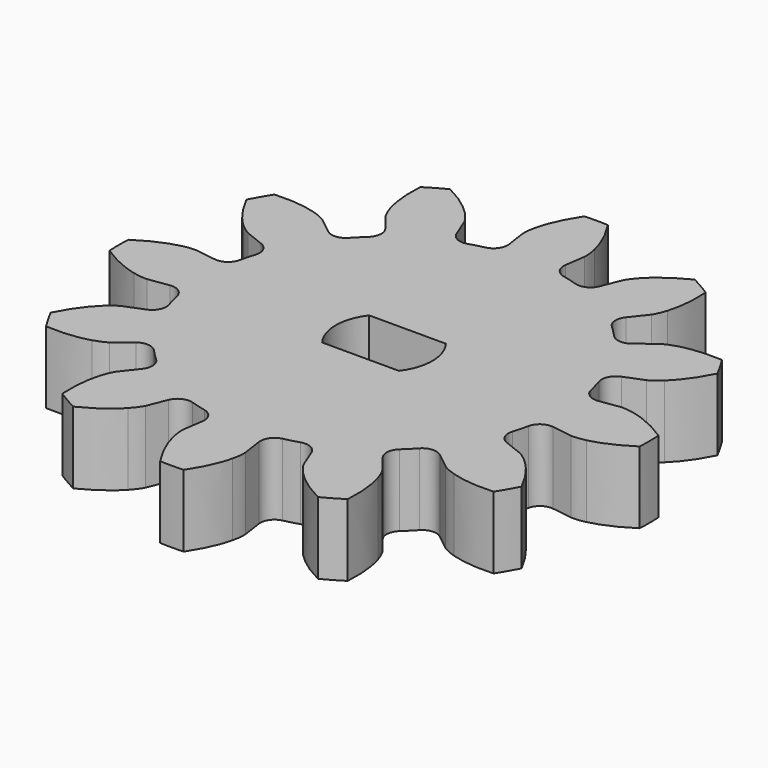
from build123d import *

# Parameters (mm, degrees)
PAD001_DEPTH    = 3.8
SKETCH004_R     = 3.5
PAD002_DEPTH    = 3
POCKET002_DEPTH = 100


with BuildPart() as part:
    # InvoluteGear001 → Pad001 (new body)
    with BuildSketch(Plane.XY):
        with BuildLine():
            Line((10.114057, -1.48521), (11.188455, -1.641329))
            add(Edge.make_bspline(
                [(11.188455, -1.641329), (11.271163, -1.647218), (11.519475, -1.652719), (11.936924, -1.557673)],
                knots=[0, 0, 0, 0, 1, 1, 1, 1], degree=3))
            add(Edge.make_bspline(
                [(11.936924, -1.557673), (12.433827, -1.44162), (13.14138, -1.18392), (13.989027, -0.619513)],
                knots=[0, 0, 0, 0, 1, 1, 1, 1], degree=3))
            ThreePointArc((13.989027, -0.619513), (14.002741, 0), (13.989027, 0.619513))
            add(Edge.make_bspline(
                [(13.989027, 0.619513), (13.14138, 1.18392), (12.433827, 1.44162), (11.936924, 1.557673)],
                knots=[0, 0, 0, 0, 1, 1, 1, 1], degree=3))
            add(Edge.make_bspline(
                [(11.936924, 1.557673), (11.519475, 1.652719), (11.271163, 1.647218), (11.188455, 1.641329)],
                knots=[0, 0, 0, 0, 1, 1, 1, 1], degree=3))
            Line((11.188455, 1.641329), (10.114057, 1.48521))
            ThreePointArc((10.114057, 1.48521), (9.580533, 1.608986), (9.273415, 2.062469))
            ThreePointArc((9.273415, 2.062469), (9.176295, 2.458781), (9.062247, 2.850557))
            ThreePointArc((9.062247, 2.850557), (9.101478, 3.396844), (9.501636, 3.770799))
            Line((9.501636, 3.770799), (10.510151, 4.172795))
            add(Edge.make_bspline(
                [(10.510151, 4.172795), (10.584722, 4.209049), (10.802518, 4.328441), (11.116516, 4.619478)],
                knots=[0, 0, 0, 0, 1, 1, 1, 1], degree=3))
            add(Edge.make_bspline(
                [(11.116516, 4.619478), (11.48882, 4.968434), (11.972729, 5.545385), (12.424609, 6.457999)],
                knots=[0, 0, 0, 0, 1, 1, 1, 1], degree=3))
            ThreePointArc((12.424609, 6.457999), (12.126729, 7.00137), (11.805096, 7.531028))
            add(Edge.make_bspline(
                [(11.805096, 7.531028), (10.788809, 7.595995), (10.0472, 7.465393), (9.558843, 7.317446)],
                knots=[0, 0, 0, 0, 1, 1, 1, 1], degree=3))
            add(Edge.make_bspline(
                [(9.558843, 7.317446), (9.149799, 7.191034), (8.937504, 7.062114), (8.868822, 7.01566)],
                knots=[0, 0, 0, 0, 1, 1, 1, 1], degree=3))
            Line((8.868822, 7.01566), (8.016425, 6.343258))
            ThreePointArc((8.016425, 6.343258), (7.492492, 6.183689), (6.999778, 6.422858))
            ThreePointArc((6.999778, 6.422858), (6.717514, 6.717514), (6.422858, 6.999778))
            ThreePointArc((6.422858, 6.999778), (6.183689, 7.492492), (6.343258, 8.016425))
            Line((6.343258, 8.016425), (7.01566, 8.868822))
            add(Edge.make_bspline(
                [(7.01566, 8.868822), (7.062114, 8.937504), (7.191034, 9.149799), (7.317446, 9.558843)],
                knots=[0, 0, 0, 0, 1, 1, 1, 1], degree=3))
            add(Edge.make_bspline(
                [(7.317446, 9.558843), (7.465393, 10.0472), (7.595995, 10.788809), (7.531028, 11.805096)],
                knots=[0, 0, 0, 0, 1, 1, 1, 1], degree=3))
            ThreePointArc((7.531028, 11.805096), (7.00137, 12.126729), (6.457999, 12.424609))
            add(Edge.make_bspline(
                [(6.457999, 12.424609), (5.545385, 11.972729), (4.968434, 11.48882), (4.619478, 11.116516)],
                knots=[0, 0, 0, 0, 1, 1, 1, 1], degree=3))
            add(Edge.make_bspline(
                [(4.619478, 11.116516), (4.328441, 10.802518), (4.209049, 10.584722), (4.172795, 10.510151)],
                knots=[0, 0, 0, 0, 1, 1, 1, 1], degree=3))
            Line((4.172795, 10.510151), (3.770799, 9.501636))
            ThreePointArc((3.770799, 9.501636), (3.396844, 9.101478), (2.850557, 9.062247))
            ThreePointArc((2.850557, 9.062247), (2.458781, 9.176295), (2.062469, 9.273415))
            ThreePointArc((2.062469, 9.273415), (1.608986, 9.580533), (1.48521, 10.114057))
            Line((1.48521, 10.114057), (1.641329, 11.188455))
            add(Edge.make_bspline(
                [(1.641329, 11.188455), (1.647218, 11.271163), (1.652719, 11.519475), (1.557673, 11.936924)],
                knots=[0, 0, 0, 0, 1, 1, 1, 1], degree=3))
            add(Edge.make_bspline(
                [(1.557673, 11.936924), (1.44162, 12.433827), (1.18392, 13.14138), (0.619513, 13.989027)],
                knots=[0, 0, 0, 0, 1, 1, 1, 1], degree=3))
            ThreePointArc((0.619513, 13.989027), (0, 14.002741), (-0.619513, 13.989027))
            add(Edge.make_bspline(
                [(-0.619513, 13.989027), (-1.18392, 13.14138), (-1.44162, 12.433827), (-1.557673, 11.936924)],
                knots=[0, 0, 0, 0, 1, 1, 1, 1], degree=3))
            add(Edge.make_bspline(
                [(-1.557673, 11.936924), (-1.652719, 11.519475), (-1.647218, 11.271163), (-1.641329, 11.188455)],
                knots=[0, 0, 0, 0, 1, 1, 1, 1], degree=3))
            Line((-1.641329, 11.188455), (-1.48521, 10.114057))
            ThreePointArc((-1.48521, 10.114057), (-1.608986, 9.580533), (-2.062469, 9.273415))
            ThreePointArc((-2.062469, 9.273415), (-2.458781, 9.176295), (-2.850557, 9.062247))
            ThreePointArc((-2.850557, 9.062247), (-3.396844, 9.101478), (-3.770799, 9.501636))
            Line((-3.770799, 9.501636), (-4.172795, 10.510151))
            add(Edge.make_bspline(
                [(-4.172795, 10.510151), (-4.209049, 10.584722), (-4.328441, 10.802518), (-4.619478, 11.116516)],
                knots=[0, 0, 0, 0, 1, 1, 1, 1], degree=3))
            add(Edge.make_bspline(
                [(-4.619478, 11.116516), (-4.968434, 11.48882), (-5.545385, 11.972729), (-6.457999, 12.424609)],
                knots=[0, 0, 0, 0, 1, 1, 1, 1], degree=3))
            ThreePointArc((-6.457999, 12.424609), (-7.00137, 12.126729), (-7.531028, 11.805096))
            add(Edge.make_bspline(
                [(-7.531028, 11.805096), (-7.595995, 10.788809), (-7.465393, 10.0472), (-7.317446, 9.558843)],
                knots=[0, 0, 0, 0, 1, 1, 1, 1], degree=3))
            add(Edge.make_bspline(
                [(-7.317446, 9.558843), (-7.191034, 9.149799), (-7.062114, 8.937504), (-7.01566, 8.868822)],
                knots=[0, 0, 0, 0, 1, 1, 1, 1], degree=3))
            Line((-7.01566, 8.868822), (-6.343258, 8.016425))
            ThreePointArc((-6.343258, 8.016425), (-6.183689, 7.492492), (-6.422858, 6.999778))
            ThreePointArc((-6.422858, 6.999778), (-6.717514, 6.717514), (-6.999778, 6.422858))
            ThreePointArc((-6.999778, 6.422858), (-7.492492, 6.183689), (-8.016425, 6.343258))
            Line((-8.016425, 6.343258), (-8.868822, 7.01566))
            add(Edge.make_bspline(
                [(-8.868822, 7.01566), (-8.937504, 7.062114), (-9.149799, 7.191034), (-9.558843, 7.317446)],
                knots=[0, 0, 0, 0, 1, 1, 1, 1], degree=3))
            add(Edge.make_bspline(
                [(-9.558843, 7.317446), (-10.0472, 7.465393), (-10.788809, 7.595995), (-11.805096, 7.531028)],
                knots=[0, 0, 0, 0, 1, 1, 1, 1], degree=3))
            ThreePointArc((-11.805096, 7.531028), (-12.126729, 7.00137), (-12.424609, 6.457999))
            add(Edge.make_bspline(
                [(-12.424609, 6.457999), (-11.972729, 5.545385), (-11.48882, 4.968434), (-11.116516, 4.619478)],
                knots=[0, 0, 0, 0, 1, 1, 1, 1], degree=3))
            add(Edge.make_bspline(
                [(-11.116516, 4.619478), (-10.802518, 4.328441), (-10.584722, 4.209049), (-10.510151, 4.172795)],
                knots=[0, 0, 0, 0, 1, 1, 1, 1], degree=3))
            Line((-10.510151, 4.172795), (-9.501636, 3.770799))
            ThreePointArc((-9.501636, 3.770799), (-9.101478, 3.396844), (-9.062247, 2.850557))
            ThreePointArc((-9.062247, 2.850557), (-9.176295, 2.458781), (-9.273415, 2.062469))
            ThreePointArc((-9.273415, 2.062469), (-9.580533, 1.608986), (-10.114057, 1.48521))
            Line((-10.114057, 1.48521), (-11.188455, 1.641329))
            add(Edge.make_bspline(
                [(-11.188455, 1.641329), (-11.271163, 1.647218), (-11.519475, 1.652719), (-11.936924, 1.557673)],
                knots=[0, 0, 0, 0, 1, 1, 1, 1], degree=3))
            add(Edge.make_bspline(
                [(-11.936924, 1.557673), (-12.433827, 1.44162), (-13.14138, 1.18392), (-13.989027, 0.619513)],
                knots=[0, 0, 0, 0, 1, 1, 1, 1], degree=3))
            ThreePointArc((-13.989027, 0.619513), (-14.002741, 0), (-13.989027, -0.619513))
            add(Edge.make_bspline(
                [(-13.989027, -0.619513), (-13.14138, -1.18392), (-12.433827, -1.44162), (-11.936924, -1.557673)],
                knots=[0, 0, 0, 0, 1, 1, 1, 1], degree=3))
            add(Edge.make_bspline(
                [(-11.936924, -1.557673), (-11.519475, -1.652719), (-11.271163, -1.647218), (-11.188455, -1.641329)],
                knots=[0, 0, 0, 0, 1, 1, 1, 1], degree=3))
            Line((-11.188455, -1.641329), (-10.114057, -1.48521))
            ThreePointArc((-10.114057, -1.48521), (-9.580533, -1.608986), (-9.273415, -2.062469))
            ThreePointArc((-9.273415, -2.062469), (-9.176295, -2.458781), (-9.062247, -2.850557))
            ThreePointArc((-9.062247, -2.850557), (-9.101478, -3.396844), (-9.501636, -3.770799))
            Line((-9.501636, -3.770799), (-10.510151, -4.172795))
            add(Edge.make_bspline(
                [(-10.510151, -4.172795), (-10.584722, -4.209049), (-10.802518, -4.328441), (-11.116516, -4.619478)],
                knots=[0, 0, 0, 0, 1, 1, 1, 1], degree=3))
            add(Edge.make_bspline(
                [(-11.116516, -4.619478), (-11.48882, -4.968434), (-11.972729, -5.545385), (-12.424609, -6.457999)],
                knots=[0, 0, 0, 0, 1, 1, 1, 1], degree=3))
            ThreePointArc((-12.424609, -6.457999), (-12.126729, -7.00137), (-11.805096, -7.531028))
            add(Edge.make_bspline(
                [(-11.805096, -7.531028), (-10.788809, -7.595995), (-10.0472, -7.465393), (-9.558843, -7.317446)],
                knots=[0, 0, 0, 0, 1, 1, 1, 1], degree=3))
            add(Edge.make_bspline(
                [(-9.558843, -7.317446), (-9.149799, -7.191034), (-8.937504, -7.062114), (-8.868822, -7.01566)],
                knots=[0, 0, 0, 0, 1, 1, 1, 1], degree=3))
            Line((-8.868822, -7.01566), (-8.016425, -6.343258))
            ThreePointArc((-8.016425, -6.343258), (-7.492492, -6.183689), (-6.999778, -6.422858))
            ThreePointArc((-6.999778, -6.422858), (-6.717514, -6.717514), (-6.422858, -6.999778))
            ThreePointArc((-6.422858, -6.999778), (-6.183689, -7.492492), (-6.343258, -8.016425))
            Line((-6.343258, -8.016425), (-7.01566, -8.868822))
            add(Edge.make_bspline(
                [(-7.01566, -8.868822), (-7.062114, -8.937504), (-7.191034, -9.149799), (-7.317446, -9.558843)],
                knots=[0, 0, 0, 0, 1, 1, 1, 1], degree=3))
            add(Edge.make_bspline(
                [(-7.317446, -9.558843), (-7.465393, -10.0472), (-7.595995, -10.788809), (-7.531028, -11.805096)],
                knots=[0, 0, 0, 0, 1, 1, 1, 1], degree=3))
            ThreePointArc((-7.531028, -11.805096), (-7.00137, -12.126729), (-6.457999, -12.424609))
            add(Edge.make_bspline(
                [(-6.457999, -12.424609), (-5.545385, -11.972729), (-4.968434, -11.48882), (-4.619478, -11.116516)],
                knots=[0, 0, 0, 0, 1, 1, 1, 1], degree=3))
            add(Edge.make_bspline(
                [(-4.619478, -11.116516), (-4.328441, -10.802518), (-4.209049, -10.584722), (-4.172795, -10.510151)],
                knots=[0, 0, 0, 0, 1, 1, 1, 1], degree=3))
            Line((-4.172795, -10.510151), (-3.770799, -9.501636))
            ThreePointArc((-3.770799, -9.501636), (-3.396844, -9.101478), (-2.850557, -9.062247))
            ThreePointArc((-2.850557, -9.062247), (-2.458781, -9.176295), (-2.062469, -9.273415))
            ThreePointArc((-2.062469, -9.273415), (-1.608986, -9.580533), (-1.48521, -10.114057))
            Line((-1.48521, -10.114057), (-1.641329, -11.188455))
            add(Edge.make_bspline(
                [(-1.641329, -11.188455), (-1.647218, -11.271163), (-1.652719, -11.519475), (-1.557673, -11.936924)],
                knots=[0, 0, 0, 0, 1, 1, 1, 1], degree=3))
            add(Edge.make_bspline(
                [(-1.557673, -11.936924), (-1.44162, -12.433827), (-1.18392, -13.14138), (-0.619513, -13.989027)],
                knots=[0, 0, 0, 0, 1, 1, 1, 1], degree=3))
            ThreePointArc((-0.619513, -13.989027), (0, -14.002741), (0.619513, -13.989027))
            add(Edge.make_bspline(
                [(0.619513, -13.989027), (1.18392, -13.14138), (1.44162, -12.433827), (1.557673, -11.936924)],
                knots=[0, 0, 0, 0, 1, 1, 1, 1], degree=3))
            add(Edge.make_bspline(
                [(1.557673, -11.936924), (1.652719, -11.519475), (1.647218, -11.271163), (1.641329, -11.188455)],
                knots=[0, 0, 0, 0, 1, 1, 1, 1], degree=3))
            Line((1.641329, -11.188455), (1.48521, -10.114057))
            ThreePointArc((1.48521, -10.114057), (1.608986, -9.580533), (2.062469, -9.273415))
            ThreePointArc((2.062469, -9.273415), (2.458781, -9.176295), (2.850557, -9.062247))
            ThreePointArc((2.850557, -9.062247), (3.396844, -9.101478), (3.770799, -9.501636))
            Line((3.770799, -9.501636), (4.172795, -10.510151))
            add(Edge.make_bspline(
                [(4.172795, -10.510151), (4.209049, -10.584722), (4.328441, -10.802518), (4.619478, -11.116516)],
                knots=[0, 0, 0, 0, 1, 1, 1, 1], degree=3))
            add(Edge.make_bspline(
                [(4.619478, -11.116516), (4.968434, -11.48882), (5.545385, -11.972729), (6.457999, -12.424609)],
                knots=[0, 0, 0, 0, 1, 1, 1, 1], degree=3))
            ThreePointArc((6.457999, -12.424609), (7.00137, -12.126729), (7.531028, -11.805096))
            add(Edge.make_bspline(
                [(7.531028, -11.805096), (7.595995, -10.788809), (7.465393, -10.0472), (7.317446, -9.558843)],
                knots=[0, 0, 0, 0, 1, 1, 1, 1], degree=3))
            add(Edge.make_bspline(
                [(7.317446, -9.558843), (7.191034, -9.149799), (7.062114, -8.937504), (7.01566, -8.868822)],
                knots=[0, 0, 0, 0, 1, 1, 1, 1], degree=3))
            Line((7.01566, -8.868822), (6.343258, -8.016425))
            ThreePointArc((6.343258, -8.016425), (6.183689, -7.492492), (6.422858, -6.999778))
            ThreePointArc((6.422858, -6.999778), (6.717514, -6.717514), (6.999778, -6.422858))
            ThreePointArc((6.999778, -6.422858), (7.492492, -6.183689), (8.016425, -6.343258))
            Line((8.016425, -6.343258), (8.868822, -7.01566))
            add(Edge.make_bspline(
                [(8.868822, -7.01566), (8.937504, -7.062114), (9.149799, -7.191034), (9.558843, -7.317446)],
                knots=[0, 0, 0, 0, 1, 1, 1, 1], degree=3))
            add(Edge.make_bspline(
                [(9.558843, -7.317446), (10.0472, -7.465393), (10.788809, -7.595995), (11.805096, -7.531028)],
                knots=[0, 0, 0, 0, 1, 1, 1, 1], degree=3))
            ThreePointArc((11.805096, -7.531028), (12.126729, -7.00137), (12.424609, -6.457999))
            add(Edge.make_bspline(
                [(12.424609, -6.457999), (11.972729, -5.545385), (11.48882, -4.968434), (11.116516, -4.619478)],
                knots=[0, 0, 0, 0, 1, 1, 1, 1], degree=3))
            add(Edge.make_bspline(
                [(11.116516, -4.619478), (10.802518, -4.328441), (10.584722, -4.209049), (10.510151, -4.172795)],
                knots=[0, 0, 0, 0, 1, 1, 1, 1], degree=3))
            Line((10.510151, -4.172795), (9.501636, -3.770799))
            ThreePointArc((9.501636, -3.770799), (9.101478, -3.396844), (9.062247, -2.850557))
            ThreePointArc((9.062247, -2.850557), (9.176295, -2.458781), (9.273415, -2.062469))
            ThreePointArc((9.273415, -2.062469), (9.580533, -1.608986), (10.114057, -1.48521))
        make_face()
    extrude(amount=PAD001_DEPTH)

    # Sketch004 (on Face121 of Pad001) → Pad002 (join)
    with BuildSketch(Plane(origin=(0, 0, 0), x_dir=(1, 0, 0), z_dir=(0, 0, -1))):
        Circle(SKETCH004_R)
    extrude(amount=PAD002_DEPTH)

    # Sketch005 (on Face5 of Pad002) → Pocket002 (cut)
    with BuildSketch(Plane.XY.offset(3.8)):
        with BuildLine():
            ThreePointArc((-2.024846, 1.55), (-2.55, 0), (-2.024846, -1.55))
            Line((-2.024846, -1.55), (2.024846, -1.55))
            ThreePointArc((2.024846, -1.55), (2.55, 0), (2.024846, 1.55))
            Line((-2.024846, 1.55), (2.024846, 1.55))
        make_face()
    extrude(amount=-POCKET002_DEPTH, mode=Mode.SUBTRACT)


with BuildPart() as part_1:
    # Body002 placement: moved
    add(part.part.moved(Location((-9, 34, -1.9))))


solid = part_1.part
